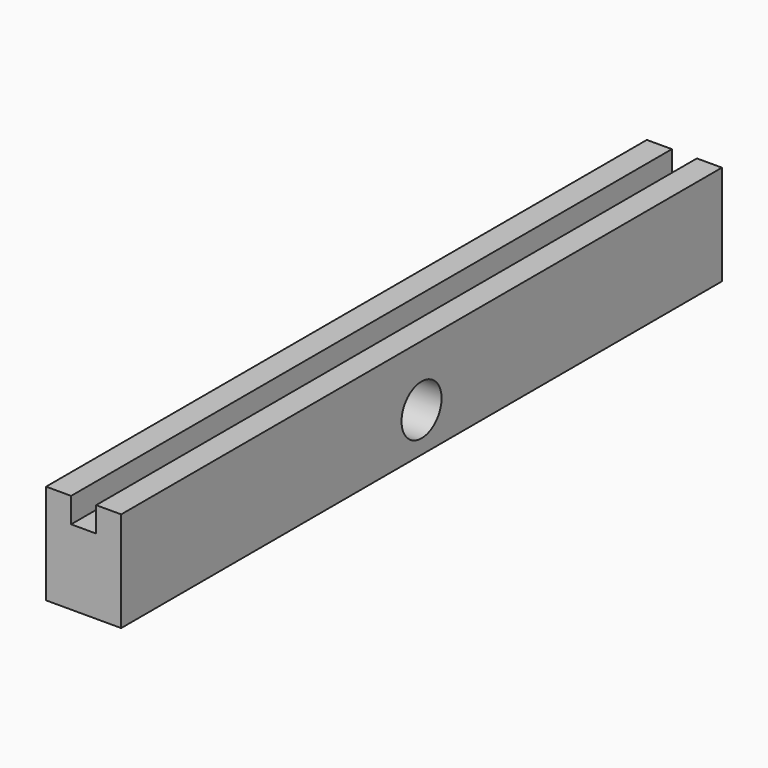
from build123d import *

# Parameters (mm, degrees)
F1_DEPTH = 75
F3_D     = 10


with BuildPart() as f1:
    # F0 (on Front) → F1 (new body, symmetric)
    with BuildSketch(Plane.XZ):
        Polygon((-14.455243, 12.110674), (-19.455243, 12.110674), (-19.455243, -7.889326), (-4.455243, -7.889326), (-4.455243, 12.110674), (-9.455243, 12.110674), (-9.455243, 7.110674), (-14.455243, 7.110674), align=None)
    extrude(amount=F1_DEPTH, both=True)

    # F3 (through all)
    with Locations(Plane(origin=(-19.455243, 0, 0), x_dir=(0, -1, 0), z_dir=(-1, 0, 0))):
        with Locations((0, 0)):
            Hole(F3_D / 2)


solid = f1.part
